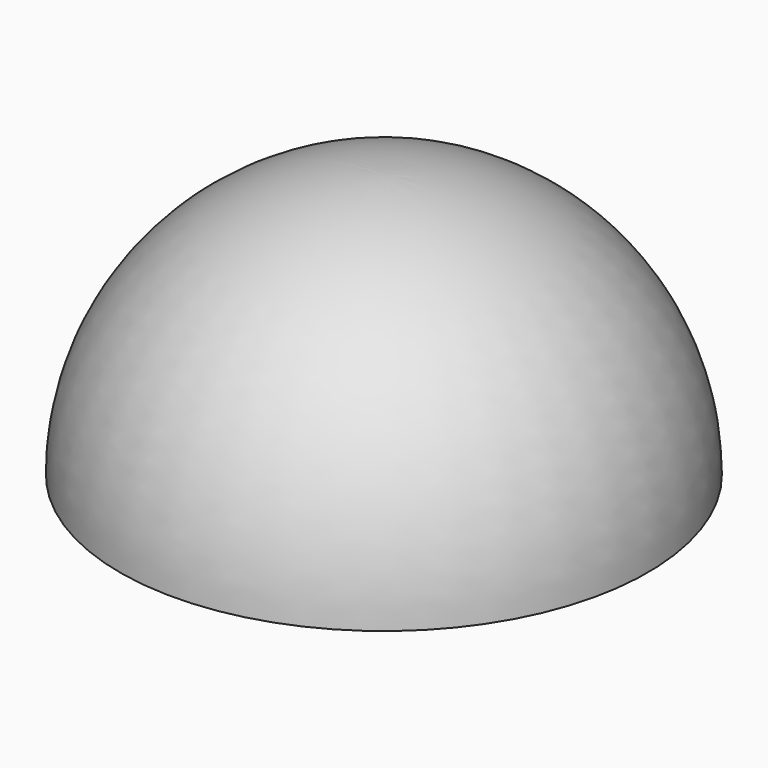
from build123d import *


with BuildPart() as f1:
    # F0 (on Front) → F1 (revolve)
    with BuildSketch(Plane.XZ):
        with BuildLine():
            Line((0, 48), (0, 50))
            ThreePointArc((0, 50), (-35.355339, 35.355339), (-50, 0))
            Line((-50, 0), (0, 0))
            Line((0, 0), (0, 2))
            Line((0, 2), (-47.958315, 2))
            ThreePointArc((-47.958315, 2), (-33.226495, 34.641016), (0, 48))
        make_face()
    revolve(axis=Axis((0, 0, 31.823438), (0, 0, 1)))


solid = f1.part
